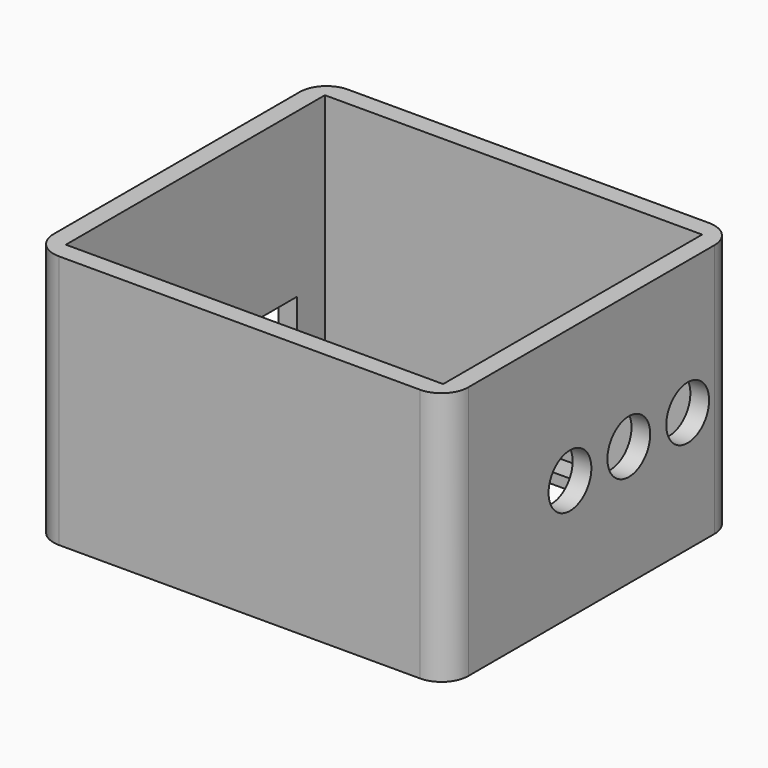
from build123d import *

# Parameters (mm, degrees)
PAD_DEPTH       = 19
SKETCH001_W     = 28.2
SKETCH001_H     = 24.2
POCKET_DEPTH    = 18.2
SKETCH002_W     = 23
SKETCH002_H     = 12
POCKET001_DEPTH = 0.8
SKETCH003_R     = 2
POCKET002_DEPTH = 1.4
SKETCH004_W     = 10
SKETCH004_H     = 3.5
POCKET003_DEPTH = 1.4
PAD001_DEPTH    = 2


with BuildPart() as part:
    # Sketch → Pad (new body)
    with BuildSketch(Plane.XY):
        with BuildLine():
            ThreePointArc((0, 2), (0.585786, 0.585786), (2, 0))
            Line((2, 0), (29, 0))
            ThreePointArc((29, 0), (30.414214, 0.585786), (31, 2))
            Line((31, 2), (31, 25))
            ThreePointArc((31, 25), (30.414214, 26.414214), (29, 27))
            Line((29, 27), (2, 27))
            ThreePointArc((2, 27), (0.585786, 26.414214), (0, 25))
            Line((0, 25), (0, 2))
        make_face()
    extrude(amount=PAD_DEPTH)

    # Sketch001 (on Face10 of Pad) → Pocket (cut)
    with BuildSketch(Plane.XY.offset(19)):
        with Locations((15.5, 13.5)):
            Rectangle(SKETCH001_W, SKETCH001_H)
    extrude(amount=-POCKET_DEPTH, mode=Mode.SUBTRACT)

    # Sketch002 (on Face15 of Pocket) → Pocket001 (cut)
    with BuildSketch(Plane.XY.offset(0.8)):
        with Locations((15.5, 18)):
            Rectangle(SKETCH002_W, SKETCH002_H)
    extrude(amount=-POCKET001_DEPTH, mode=Mode.SUBTRACT)

    # Sketch003 (on Face9 of Pocket001) → Pocket002 (cut)
    with BuildSketch(Plane.YZ.offset(31)):
        with Locations((11.5, 9)):
            Circle(SKETCH003_R)
        with Locations((17, 9)):
            Circle(SKETCH003_R)
        with Locations((22.5, 9)):
            Circle(SKETCH003_R)
    extrude(amount=-POCKET002_DEPTH, mode=Mode.SUBTRACT)

    # Sketch004 (on Face2 of Pocket002) → Pocket003 (cut)
    with BuildSketch(Plane(origin=(0, 0, 0), x_dir=(0, -1, 0), z_dir=(-1, 0, 0))):
        with Locations((-18, 5.05)):
            Rectangle(SKETCH004_W, SKETCH004_H)
    extrude(amount=-POCKET003_DEPTH, mode=Mode.SUBTRACT)

    # Sketch005 (on Face26 of Pocket003) → Pad001 (join)
    with BuildSketch(Plane.XY.offset(0.8)):
        Polygon((1.2, 25.6), (1.2, 4.9), (4, 4.9), (4, 5.9), (1.8, 5.9), (1.8, 25.6), align=None)
        Polygon((27, 4.9), (29.8, 4.9), (29.8, 25.6), (29.2, 25.6), (29.2, 5.9), (27, 5.9), align=None)
    extrude(amount=PAD001_DEPTH)


solid = part.part
